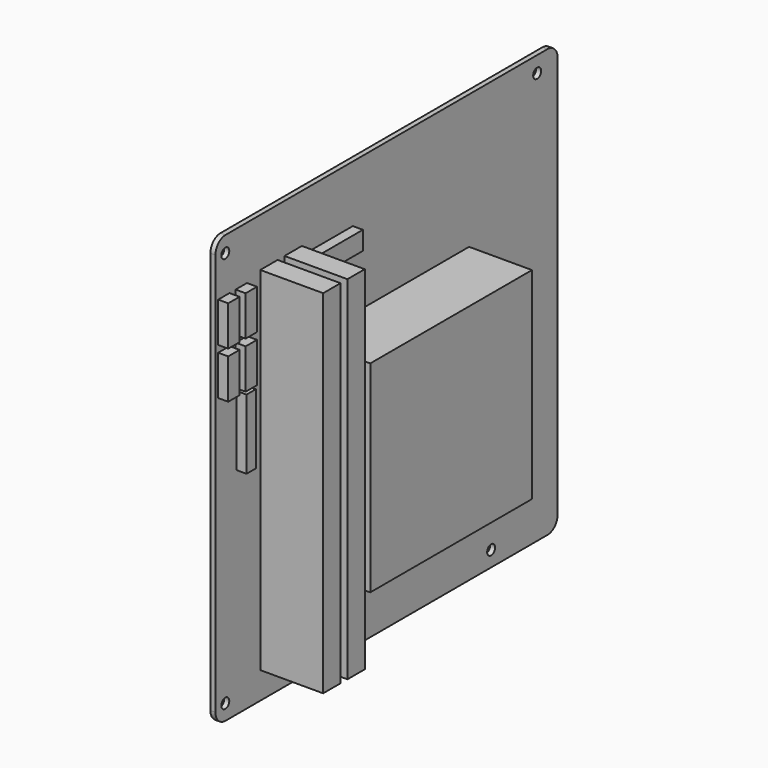
from build123d import *

# Parameters (mm, degrees)
F0_R     = 1.98
F1_DEPTH = 2
F3_ANGLE = -90
F4_W     = 5.638488
F4_H     = 15.871309
F4_W_2   = 5.638487
F5_DEPTH = 4
F4_W_3   = 4.60542
F4_H_2   = 27.714742
F6_DEPTH = 4
F4_W_4   = 22.524819
F4_H_3   = 7.381014
F7_DEPTH = 4
F4_W_5   = 80.340352
F4_H_4   = 80.123208
F8_DEPTH = 25
F4_W_6   = 8.616418
F4_H_5   = 140.016765
F4_W_7   = 8.616417
F9_DEPTH = 25


with BuildPart() as f1:
    # F0 (on Right) → F1 (new body)
    with BuildSketch(Plane.YZ):
        with BuildLine():
            Line((-80, -85), (80, -85))
            ThreePointArc((80, -85), (83.535534, -83.535534), (85, -80))
            Line((85, -80), (85, 80))
            ThreePointArc((85, 80), (83.535534, 83.535534), (80, 85))
            Line((80, 85), (-80, 85))
            ThreePointArc((-80, 85), (-83.535534, 83.535534), (-85, 80))
            Line((-85, 80), (-85, -80))
            ThreePointArc((-85, -80), (-83.535534, -83.535534), (-80, -85))
        make_face()
        with Locations((-78.65, -80.1)):
            Circle(F0_R, mode=Mode.SUBTRACT)
        with Locations((78.83, -80.1)):
            Circle(F0_R, mode=Mode.SUBTRACT)
        with Locations((-78.65, 74.84)):
            Circle(F0_R, mode=Mode.SUBTRACT)
        with Locations((78.83, 51.98)):
            Circle(F0_R, mode=Mode.SUBTRACT)
    extrude(amount=F1_DEPTH)


with BuildPart() as f1_1:
    # F3: moved
    add(f1.part.rotate(Axis((1.078181, 0, 0), (1, 0, 0)), F3_ANGLE))

    # F4 (on face) → F5 (join)
    with BuildSketch(Plane.YZ.offset(2)):
        with Locations((-72.176602, 55.920038)):
            Rectangle(F4_W, F4_H)
        with Locations((-80.823529, 55.920038)):
            Rectangle(F4_W_2, F4_H)
        with Locations((-80.823529, 37.344094)):
            Rectangle(F4_W_2, F4_H)
        with Locations((-72.176602, 37.344094)):
            Rectangle(F4_W, F4_H)
    extrude(amount=F5_DEPTH)

    # F4 (on face) → F6 (join)
    with BuildSketch(Plane.YZ.offset(2)):
        with Locations((-72.246823, 14.365959)):
            Rectangle(F4_W_3, F4_H_2)
    extrude(amount=F6_DEPTH)

    # F4 (on face) → F7 (join)
    with BuildSketch(Plane.YZ.offset(2)):
        with Locations((-28.006542, 58.70362)):
            Rectangle(F4_W_4, F4_H_3)
    extrude(amount=F7_DEPTH)

    # F4 (on face) → F8 (join)
    with BuildSketch(Plane.YZ.offset(2)):
        with Locations((0.842279, -8.411627)):
            Rectangle(F4_W_5, F4_H_4)
    extrude(amount=F8_DEPTH)

    # F4 (on face) → F9 (join)
    with BuildSketch(Plane.YZ.offset(2)):
        with Locations((-58.420569, -4.278883)):
            Rectangle(F4_W_6, F4_H_5)
        with Locations((-46.367261, -4.278883)):
            Rectangle(F4_W_7, F4_H_5)
    extrude(amount=F9_DEPTH)


solid = f1_1.part
